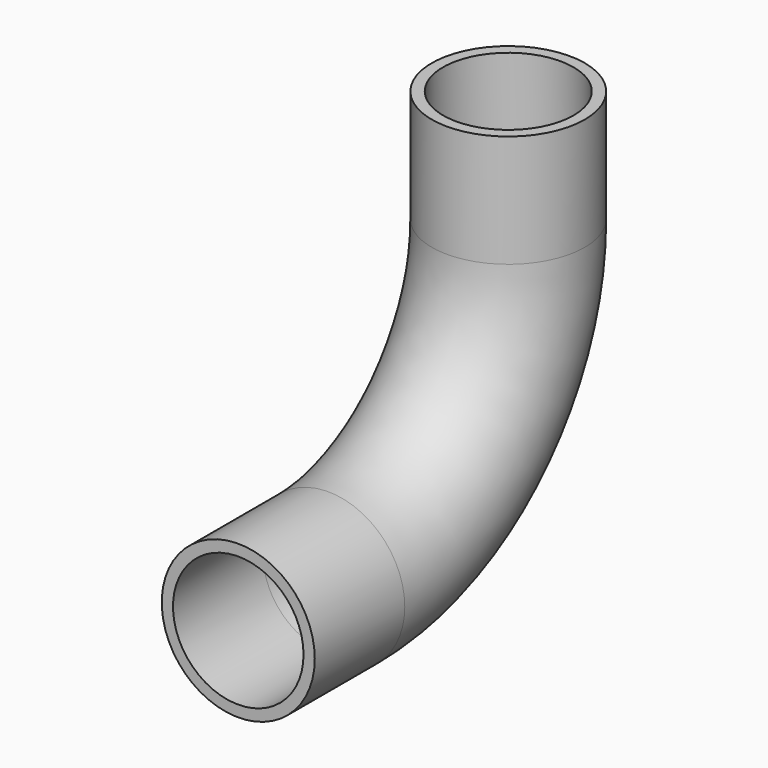
from build123d import *

# Parameters (mm, degrees)
F0_R = 17
F3_T = -2.5


with BuildPart() as f2:
    # F2: sweep along a path in F1
    with BuildLine(Plane.YZ) as f2_path:
        Line((0, 0), (25, 0))
        ThreePointArc((25, 0), (60.3553390593, 14.6446609407), (75, 50))
        Line((75, 50), (75, 75))
    # F0 (on Front) → F2 (sweep)
    with BuildSketch(Plane.XZ):
        Circle(F0_R)
    sweep(path=f2_path.line)

    # F3
    f3_openings = [f2.faces().sort_by_distance(p)[0] for p in [
        (0, 0, 0),
        (0, 75, 75),
    ]]
    offset(amount=F3_T, openings=f3_openings)


solid = f2.part
